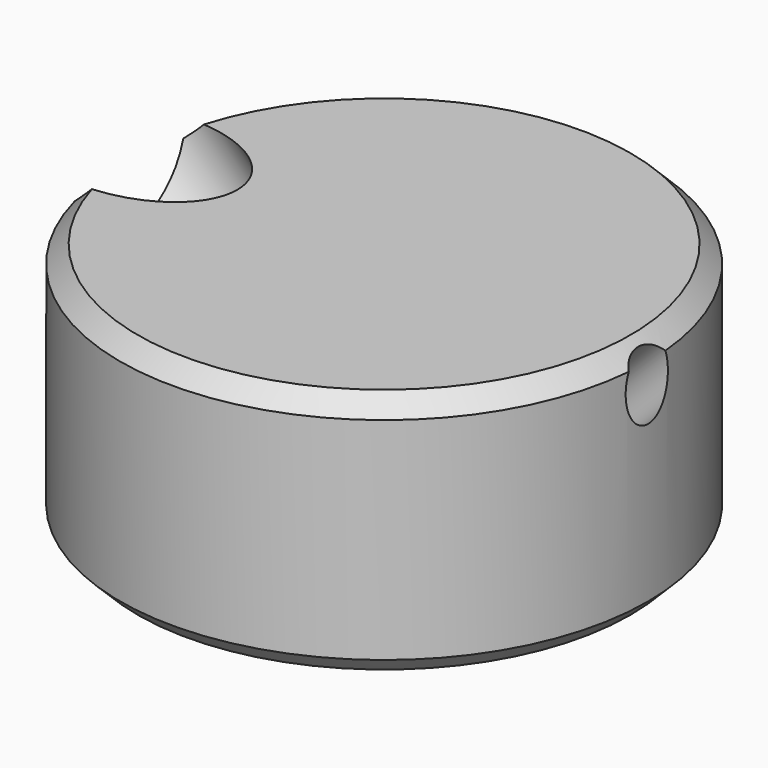
from build123d import *

# Parameters (mm, degrees)
F0_R     = 15
F1_DEPTH = 14
F2_SIZE  = 1
F3_R     = 11
F4_DEPTH = 4.4
F10_D    = 8
F13_D    = 3


with BuildPart() as f1:
    # F0 (on Top) → F1 (new body)
    with BuildSketch(Plane.XY):
        Circle(F0_R)
    extrude(amount=F1_DEPTH)

    # F2
    f2_edges = [f1.edges().sort_by_distance(p)[0] for p in [
        (-15, 0, 14),
        (-15, 0, 0),
    ]]
    chamfer(f2_edges, length=F2_SIZE)

    # F3 (on Top) → F4 (cut)
    with BuildSketch(Plane.XY):
        Circle(F3_R)
    extrude(amount=F4_DEPTH, mode=Mode.SUBTRACT)

    # F5 (on Front) → F6 (revolve, cut)
    with BuildSketch(Plane.XZ):
        Polygon((14, 4.4), (11, 4.4), (11, 1), (13.05913, 1), align=None)
    revolve(axis=Axis((0, 0, 2.2), (0, 0, 1)), mode=Mode.SUBTRACT)

    # F10 (through all)
    with Locations(Plane(origin=(0, 0, 0), x_dir=(0.707107, 0, 0.707107), z_dir=(0.707107, 0, -0.707107))):
        with Locations((0, 0)):
            Hole(F10_D / 2)

    # F13 (through all)
    with Locations(Plane(origin=(1.5, 0, 1.5), x_dir=(0.707107, 0, -0.707107), z_dir=(-0.707107, 0, -0.707107))):
        with Locations((2.12132, 0)):
            Hole(F13_D / 2)


solid = f1.part
